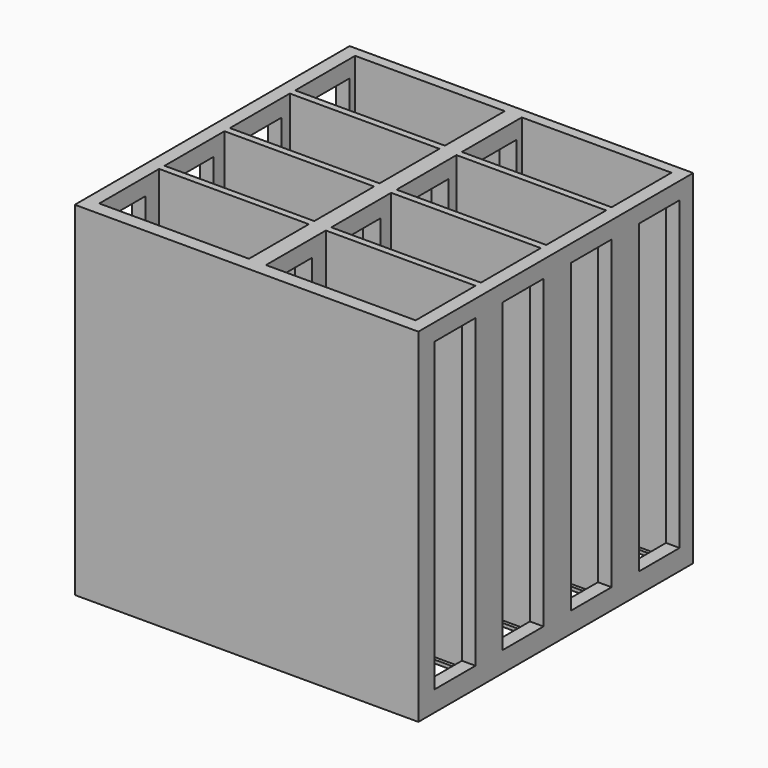
from build123d import *

# Parameters (mm, degrees)
F0_W     = 101
F0_H     = 101
F0_W_2   = 42
F0_H_2   = 20
F1_DEPTH = 1
F2_W     = 101
F2_H     = 101
F2_W_2   = 44
F2_H_2   = 22
F3_DEPTH = 100
F4_W     = 15
F4_H     = 90
F5_DEPTH = 101.001


with BuildPart() as f1:
    # F0 (on Top) → F1 (new body)
    with BuildSketch(Plane.XY):
        with Locations((50.5, 50.5)):
            Rectangle(F0_W, F0_H)
        with Locations((26, 15)):
            Rectangle(F0_W_2, F0_H_2, mode=Mode.SUBTRACT)
        with Locations((26, 39)):
            Rectangle(F0_W_2, F0_H_2, mode=Mode.SUBTRACT)
        with Locations((75, 15)):
            Rectangle(F0_W_2, F0_H_2, mode=Mode.SUBTRACT)
        with Locations((75, 39)):
            Rectangle(F0_W_2, F0_H_2, mode=Mode.SUBTRACT)
        with Locations((26, 63)):
            Rectangle(F0_W_2, F0_H_2, mode=Mode.SUBTRACT)
        with Locations((26, 87)):
            Rectangle(F0_W_2, F0_H_2, mode=Mode.SUBTRACT)
        with Locations((75, 63)):
            Rectangle(F0_W_2, F0_H_2, mode=Mode.SUBTRACT)
        with Locations((75, 87)):
            Rectangle(F0_W_2, F0_H_2, mode=Mode.SUBTRACT)
    extrude(amount=F1_DEPTH)

    # F2 (on face) → F3 (join)
    with BuildSketch(Plane.XY.offset(1)):
        with Locations((50.5, 50.5)):
            Rectangle(F2_W, F2_H)
        with Locations((26, 15)):
            Rectangle(F2_W_2, F2_H_2, mode=Mode.SUBTRACT)
        with Locations((26, 39)):
            Rectangle(F2_W_2, F2_H_2, mode=Mode.SUBTRACT)
        with Locations((75, 15)):
            Rectangle(F2_W_2, F2_H_2, mode=Mode.SUBTRACT)
        with Locations((75, 39)):
            Rectangle(F2_W_2, F2_H_2, mode=Mode.SUBTRACT)
        with Locations((26, 63)):
            Rectangle(F2_W_2, F2_H_2, mode=Mode.SUBTRACT)
        with Locations((26, 87)):
            Rectangle(F2_W_2, F2_H_2, mode=Mode.SUBTRACT)
        with Locations((75, 63)):
            Rectangle(F2_W_2, F2_H_2, mode=Mode.SUBTRACT)
        with Locations((75, 87)):
            Rectangle(F2_W_2, F2_H_2, mode=Mode.SUBTRACT)
    extrude(amount=F3_DEPTH)

    # F4 (on face) → F5 (cut, through all)
    with BuildSketch(Plane(origin=(0, 0, 0), x_dir=(0, -1, 0), z_dir=(-1, 0, 0))):
        with Locations((-88.5, 51)):
            Rectangle(F4_W, F4_H)
        with Locations((-63.5, 51)):
            Rectangle(F4_W, F4_H)
        with Locations((-38.5, 51)):
            Rectangle(F4_W, F4_H)
        with Locations((-13.5, 51)):
            Rectangle(F4_W, F4_H)
    extrude(amount=-F5_DEPTH, mode=Mode.SUBTRACT)


solid = f1.part
